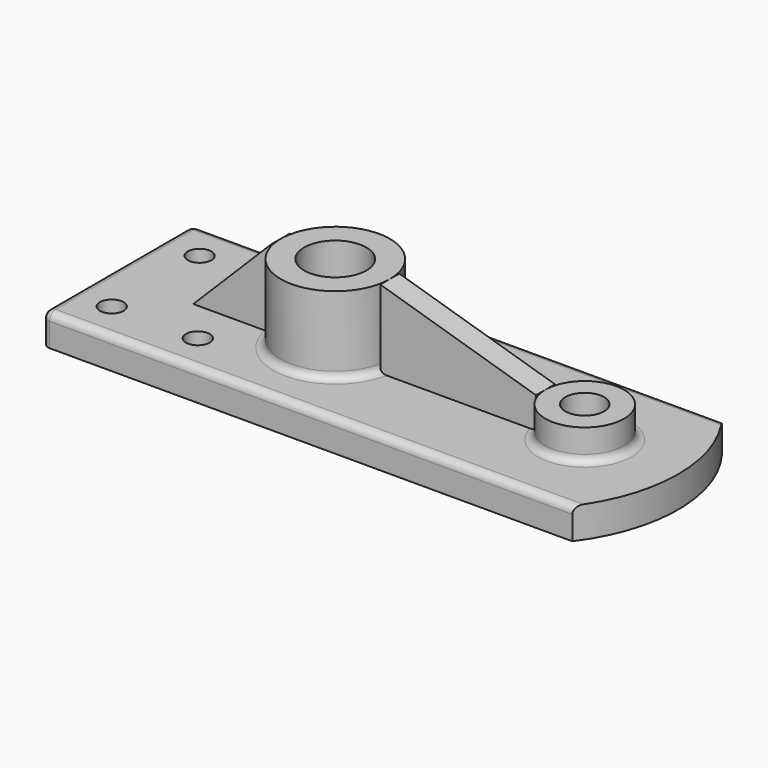
from build123d import *

# Parameters (mm, degrees)
F0_R     = 4.826
F1_DEPTH = 12.7
F2_R     = 22.225
F2_R_2   = 12.7
F3_DEPTH = 31.75
F4_R     = 16.002
F4_R_2   = 7.874
F5_DEPTH = 12.7
F7_DEPTH = 4.826
F8_R     = 3.048


with BuildPart() as f1:
    # F0 (on Top) → F1 (new body)
    with BuildSketch(Plane.XY):
        with BuildLine():
            Line((139.7, 38.1), (-50.8, 38.1))
            Line((-50.8, 38.1), (-50.8, 0))
            Line((-50.8, 0), (-50.8, -38.1))
            Line((-50.8, -38.1), (139.7, -38.1))
            Line((139.7, -38.1), (165.1, -38.1))
            ThreePointArc((165.1, -38.1), (177.8, 0), (165.1, 38.1))
            Line((165.1, 38.1), (139.7, 38.1))
        make_face()
        with Locations((-35.052, -22.352)):
            Circle(F0_R, mode=Mode.SUBTRACT)
        with Locations((0, -22.352)):
            Circle(F0_R, mode=Mode.SUBTRACT)
        with Locations((-35.052, 22.352)):
            Circle(F0_R, mode=Mode.SUBTRACT)
        with Locations((0, 22.352)):
            Circle(F0_R, mode=Mode.SUBTRACT)
    extrude(amount=F1_DEPTH)

    # F2 (on face) → F3 (join)
    with BuildSketch(Plane.XY.offset(12.7)):
        with Locations((38.1, 0)):
            Circle(F2_R)
        with Locations((38.1, 0)):
            Circle(F2_R_2, mode=Mode.SUBTRACT)
    extrude(amount=F3_DEPTH)

    # F4 (on face) → F5 (join)
    with BuildSketch(Plane.XY.offset(12.7)):
        with Locations((139.7, 0)):
            Circle(F4_R)
        with Locations((139.7, 0)):
            Circle(F4_R_2, mode=Mode.SUBTRACT)
    extrude(amount=F5_DEPTH)

    # F8
    f8_edges = [f1.edges().sort_by_distance(p)[0] for p in [
        (57.15, -38.1, 12.7),
        (-50.8, 0, 12.7),
        (57.15, 38.1, 12.7),
        (-50.8, -38.1, 6.35),
        (-50.8, 38.1, 6.35),
        (123.698, 0, 12.7),
        (15.875, 0, 12.7),
    ]]
    fillet(f8_edges, radius=F8_R)


with BuildPart() as f7:
    # F6 (on Front) → F7 (new body, symmetric)
    with BuildSketch(Plane.XZ):
        Polygon((-15.875, 12.7), (15.875, 12.7), (15.875, 44.45), align=None)
    extrude(amount=F7_DEPTH, both=True)


with BuildPart() as f7b:
    # F6 (on Front) → F7, piece 2 (new body, symmetric)
    with BuildSketch(Plane.XZ):
        Polygon((123.698, 25.4), (60.325, 44.45), (60.325, 12.7), (123.698, 12.7), align=None)
    extrude(amount=F7_DEPTH, both=True)


solid = Compound([f1.part, f7.part, f7b.part])
